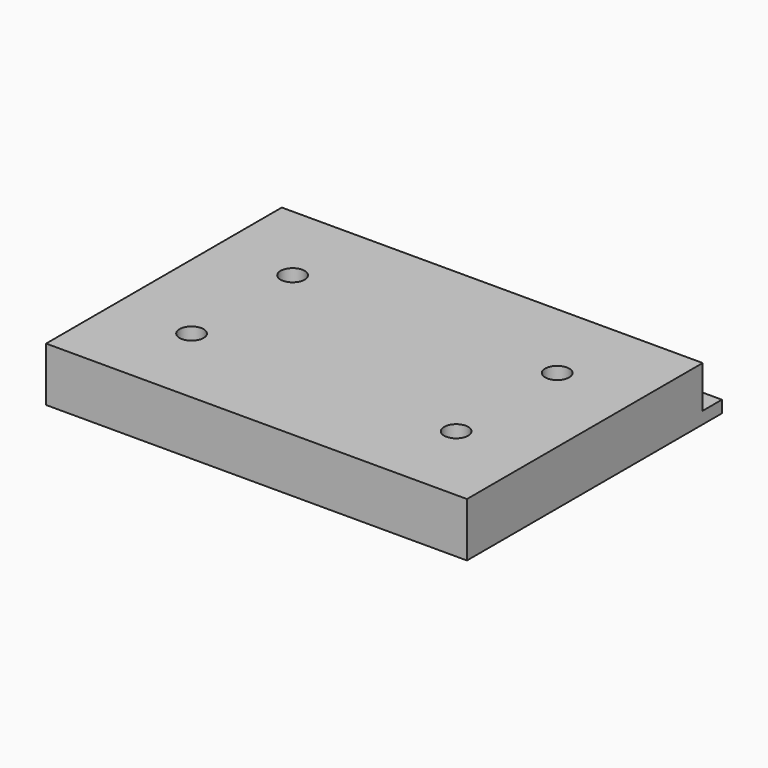
from build123d import *

# Parameters (mm, degrees)
BOX001_W     = 70
BOX001_H     = 49
BOX001_DEPTH = 9
BOX_W        = 70
BOX_H        = 53
BOX_DEPTH    = 2
SKETCH_R     = 2
POCKET_DEPTH = 9.001


with BuildPart() as cube001:
    # Box001 → Box001 (new body)
    with BuildSketch(Plane.XY):
        with Locations((35, 24.5)):
            Rectangle(BOX001_W, BOX001_H)
    extrude(amount=BOX001_DEPTH)


with BuildPart() as pocket:
    # Box → Box (new body)
    with BuildSketch(Plane.XY):
        with Locations((35, 26.5)):
            Rectangle(BOX_W, BOX_H)
    extrude(amount=BOX_DEPTH)

    # Fusion: union Cube001
    add(cube001.part)

    # Sketch → Pocket (cut, through all)
    with BuildSketch(Plane.XY.offset(9)):
        with Locations((13, 14)):
            Circle(SKETCH_R)
        with Locations((13, 35)):
            Circle(SKETCH_R)
        with Locations((57, 35)):
            Circle(SKETCH_R)
        with Locations((57, 14)):
            Circle(SKETCH_R)
    extrude(amount=-POCKET_DEPTH, mode=Mode.SUBTRACT)


solid = pocket.part
